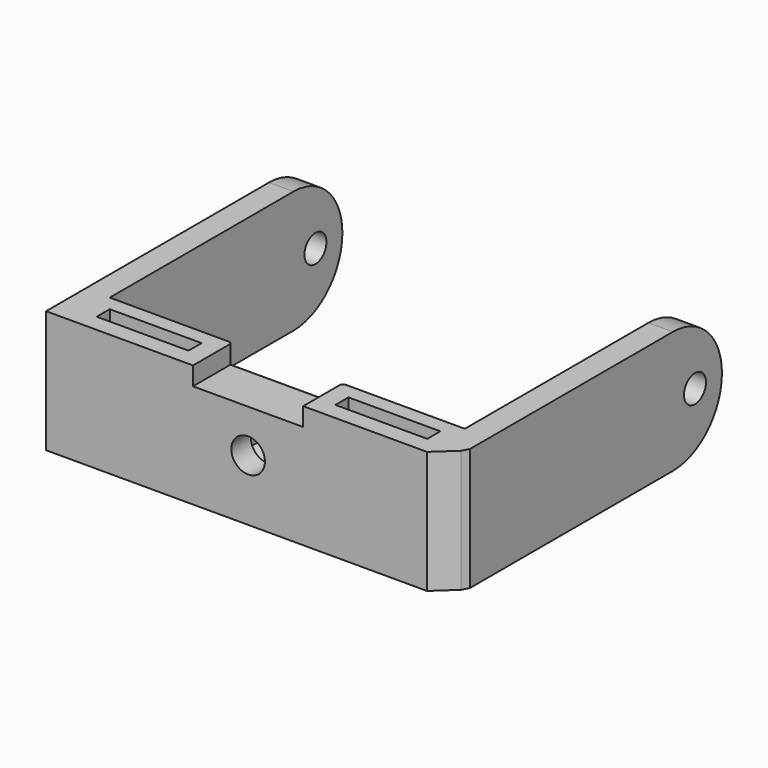
from build123d import *

# Parameters (mm, degrees)
SKETCH005_W             = 58
SKETCH005_H             = 20
SKETCH005_R             = 2.75
PAD004_DEPTH            = 8
SKETCH006_R             = 2.25
PAD005_DEPTH            = 4
POCKET005_DEPTH         = 4
SKETCH011_W             = 15
SKETCH011_H             = 2.666667
POCKET007_DEPTH         = 20
SKETCH012_W             = 18
SKETCH012_H             = 3
POCKET008_DEPTH         = 8
FILLET_R                = 0.5
POCKET009_DEPTH         = 20
BODY002_PLACEMENT_ANGLE = 180


with BuildPart() as part:
    # Sketch005 → Pad004 (new body)
    with BuildSketch(Plane.XZ):
        Rectangle(SKETCH005_W, SKETCH005_H)
        Circle(SKETCH005_R, mode=Mode.SUBTRACT)
    extrude(amount=PAD004_DEPTH)

    # Sketch006 (on Face4 of Pad004) → Pad005 (join)
    with BuildSketch(Plane(origin=(-29, 0, 0), x_dir=(0, 0, -1), z_dir=(-1, 0, 0))):
        with BuildLine():
            Line((-10, 0), (10, 0))
            Line((10, 0), (10, 45.5))
            ThreePointArc((10, 45.5), (0, 55.5), (-10, 45.5))
            Line((-10, 45.5), (-10, 0))
        make_face()
        with Locations((0, 50)):
            Circle(SKETCH006_R, mode=Mode.SUBTRACT)
    pad005 = extrude(amount=PAD005_DEPTH)

    # Mirrored003: Pad005 across YZ
    add(pad005.mirror(Plane.YZ))

    # Sketch007 (on Face5 of Mirrored003) → Pocket005 (cut)
    with BuildSketch(Plane.XZ.offset(8)):
        Polygon((4.113621, 2.375), (0, 4.75), (-4.113621, 2.375), (-4.113621, -2.375), (0, -4.75), (4.113621, -2.375), align=None)
    extrude(amount=-POCKET005_DEPTH, mode=Mode.SUBTRACT)

    # Sketch011 (on Face14 of Pocket005) → Pocket007 (cut)
    with BuildSketch(Plane(origin=(0, 0, 10), x_dir=(-1, 0, 0), z_dir=(0, 0, 1))):
        with Locations((-19.5, 4.169504)):
            Rectangle(SKETCH011_W, SKETCH011_H)
    pocket007 = extrude(amount=-POCKET007_DEPTH, mode=Mode.SUBTRACT)

    # Mirrored004: Pocket007 across YZ
    add(pocket007.mirror(Plane.YZ), mode=Mode.SUBTRACT)

    # Sketch012 (on Face3 of Mirrored004) → Pocket008 (cut)
    with BuildSketch(Plane(origin=(0, 0, 0), x_dir=(1, 0, 0), z_dir=(0, 1, 0))):
        with Locations((0, 8.5)):
            Rectangle(SKETCH012_W, SKETCH012_H)
    extrude(amount=-POCKET008_DEPTH, mode=Mode.SUBTRACT)

    # Fillet
    fillet_edges = [part.edges().sort_by_distance(p)[0] for p in [
        (0, -8, -7),
        (9, -8, -8.5),
        (-9, -8, -8.5),
    ]]
    fillet(fillet_edges, radius=FILLET_R)

    # Sketch013 (on Face35 of Fillet) → Pocket009 (cut)
    with BuildSketch(Plane(origin=(0, 0, 10), x_dir=(-1, 0, 0), z_dir=(0, 0, 1))):
        Polygon((-29.221134, 0), (-32.431889, 2.958548), (-33, 4.069963), (-33, 0), align=None)
    extrude(amount=-POCKET009_DEPTH, mode=Mode.SUBTRACT)


with BuildPart() as part_1:
    # Body002 placement: moved
    add(part.part.moved(Location((0, -30, 9))).rotate(Axis((0, -30, 9), (1, 0, 0)), BODY002_PLACEMENT_ANGLE))


solid = part_1.part
